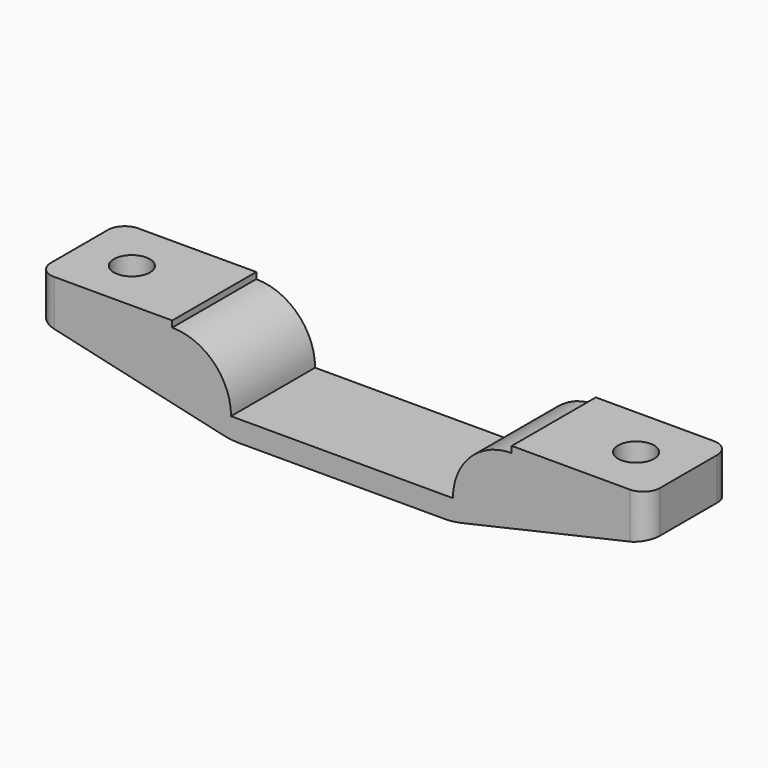
from build123d import *

# Parameters (mm, degrees)
PAD_DEPTH       = 25
SKETCH001_R     = 4.3
POCKET_DEPTH    = 20.501
SKETCH002_R     = 6.75
POCKET001_DEPTH = 15.501
FILLET_R        = 4
FILLET001_R     = 18


with BuildPart() as part:
    # Sketch → Pad (new body)
    with BuildSketch(Plane.XZ):
        with BuildLine():
            Line((40.4, -20.4), (72.5, -20.4))
            Line((72.5, -20.4), (72.5, -30.4))
            Line((26.4, -40.9), (72.5, -30.4))
            Line((-26.4, -40.9), (26.4, -40.9))
            Line((-72.5, -30.4), (-26.4, -40.9))
            Line((-72.5, -30.4), (-72.5, -20.4))
            Line((-72.5, -20.4), (-40.4, -20.4))
            Line((-40.4, -21.9), (-40.4, -20.4))
            ThreePointArc((-26.4, -35.9), (-30.500505, -26.000505), (-40.4, -21.9))
            Line((-26.4, -35.9), (26.4, -35.9))
            ThreePointArc((40.4, -21.9), (30.500505, -26.000505), (26.4, -35.9))
            Line((40.4, -21.9), (40.4, -20.4))
        make_face()
    extrude(amount=PAD_DEPTH)

    # Sketch001 (on Face8 of Pad) → Pocket (cut, through all)
    with BuildSketch(Plane(origin=(0, 0, -20.4), x_dir=(-1, 0, 0), z_dir=(0, 0, 1))):
        with Locations((-60, 12.5)):
            Circle(SKETCH001_R)
        with Locations((60, 12.5)):
            Circle(SKETCH001_R)
    extrude(amount=-POCKET_DEPTH, mode=Mode.SUBTRACT)

    # Sketch002 (on Face13 of Pocket) → Pocket001 (cut, through all)
    with BuildSketch(Plane(origin=(0, 0, -25.4), x_dir=(-1, 0, 0), z_dir=(0, 0, 1))):
        with Locations((-60, 12.5)):
            Circle(SKETCH002_R)
        with Locations((60, 12.5)):
            Circle(SKETCH002_R)
    extrude(amount=-POCKET001_DEPTH, mode=Mode.SUBTRACT)

    # Fillet
    fillet_edges = [part.edges().sort_by_distance(p)[0] for p in [
        (-72.5, -25, -25.4),
        (-72.5, 0, -25.4),
        (72.5, -25, -25.4),
        (72.5, 0, -25.4),
    ]]
    fillet(fillet_edges, radius=FILLET_R)

    # Fillet001
    fillet001_edges = [part.edges().sort_by_distance(p)[0] for p in [
        (-26.4, -12.5, -40.9),
        (26.4, -12.5, -40.9),
    ]]
    fillet(fillet001_edges, radius=FILLET001_R)


solid = part.part
